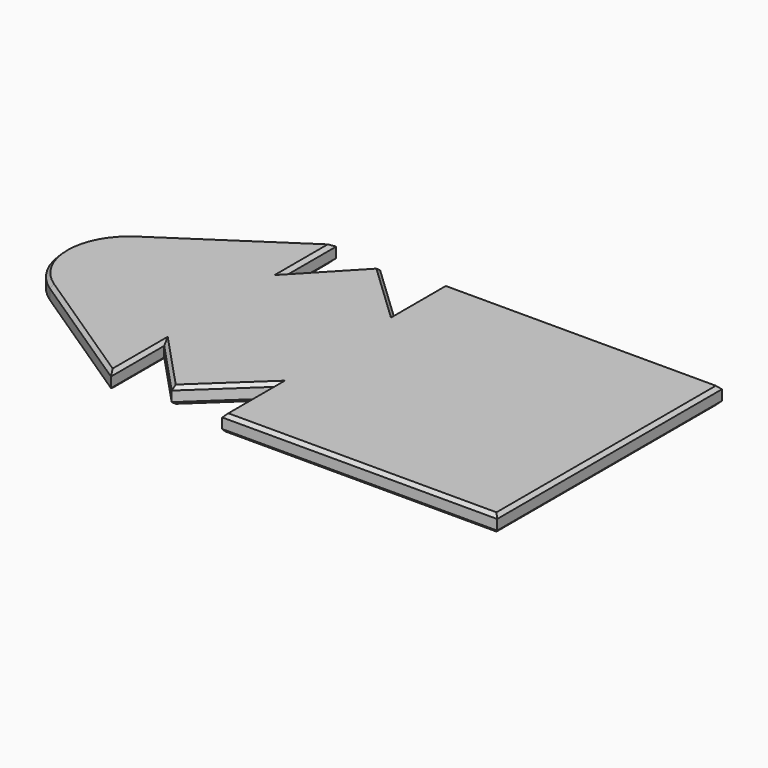
from build123d import *

# Parameters (mm, degrees)
PAD_DEPTH       = 5
CHAMFER_SIZE    = 1
CHAMFER001_SIZE = 1


with BuildPart() as part:
    # Sketch → Pad (new body)
    with BuildSketch(Plane.XY):
        with BuildLine():
            Line((57.783013, 41.350446), (57.783013, -41.350446))
            Line((-23.135408, -41.350446), (57.783013, -41.350446))
            Line((-23.135408, -21.854214), (-23.135408, -41.350446))
            Line((-40.557513, -38.160834), (-23.135408, -21.854214))
            Line((-55.820071, -21.854214), (-40.557513, -38.160834))
            Line((-55.820071, -41.438588), (-55.820071, -21.854214))
            Line((-55.820071, -41.438588), (-94.185086, -15.952922))
            ThreePointArc((-94.185086, 15.952922), (-102.739709, 0), (-94.185086, -15.952922))
            Line((-55.820071, 41.438588), (-94.185086, 15.952922))
            Line((-55.820071, 41.438588), (-55.820071, 22.499577))
            Line((-55.820071, 22.499577), (-40.584183, 38.541902))
            Line((-40.584183, 38.541902), (-23.692736, 22.499577))
            Line((-23.692736, 22.499577), (-23.692736, 41.350446))
            Line((-23.692736, 41.350446), (57.783013, 41.350446))
        make_face()
    extrude(amount=PAD_DEPTH)

    # Chamfer
    chamfer_edges = [part.edges().sort_by_distance(p)[0] for p in [
        (-55.820071, 31.969082, 5),
        (-48.202127, 30.52074, 5),
        (-32.138459, 30.52074, 5),
        (-23.692736, 31.925012, 5),
        (17.045139, 41.350446, 5),
        (57.783013, 0, 5),
        (17.323802, -41.350446, 5),
        (-23.135408, -31.60233, 5),
        (-31.846461, -30.007524, 5),
        (-48.188792, -30.007524, 5),
        (-55.820071, -31.646401, 5),
        (-75.002579, -28.695755, 5),
        (-102.739709, 0, 5),
        (-75.002579, 28.695755, 5),
    ]]
    chamfer(chamfer_edges, length=CHAMFER_SIZE)

    # Chamfer001
    chamfer001_edges = [part.edges().sort_by_distance(p)[0] for p in [
        (-55.820071, 31.969082, 0),
        (-75.002579, 28.695755, 0),
        (-48.202127, 30.52074, 0),
        (-32.138459, 30.52074, 0),
        (-23.692736, 31.925012, 0),
        (17.045139, 41.350446, 0),
        (57.783013, 0, 0),
        (17.323802, -41.350446, 0),
        (-31.846461, -30.007524, 0),
        (-48.188792, -30.007524, 0),
        (-55.820071, -31.646401, 0),
        (-75.002579, -28.695755, 0),
        (-102.739709, 0, 0),
    ]]
    chamfer(chamfer001_edges, length=CHAMFER001_SIZE)


solid = part.part
